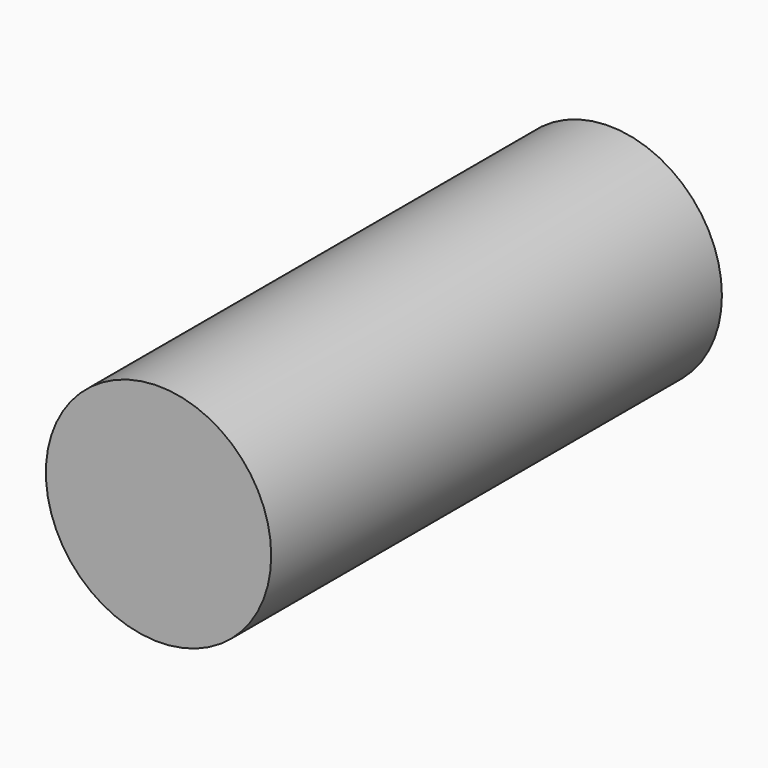
from build123d import *

# Parameters (mm, degrees)
F0_R     = 2.54
F1_DEPTH = 12.7
F2_DEPTH = 12.7


with BuildPart() as f1:
    # F0 (on Front) → F1 (new body)
    with BuildSketch(Plane.XZ):
        Circle(F0_R)
    extrude(amount=F1_DEPTH)

    # F0 (on Front) → F2 (join)
    with BuildSketch(Plane.XZ):
        Circle(F0_R)
    extrude(amount=F2_DEPTH)


solid = f1.part
